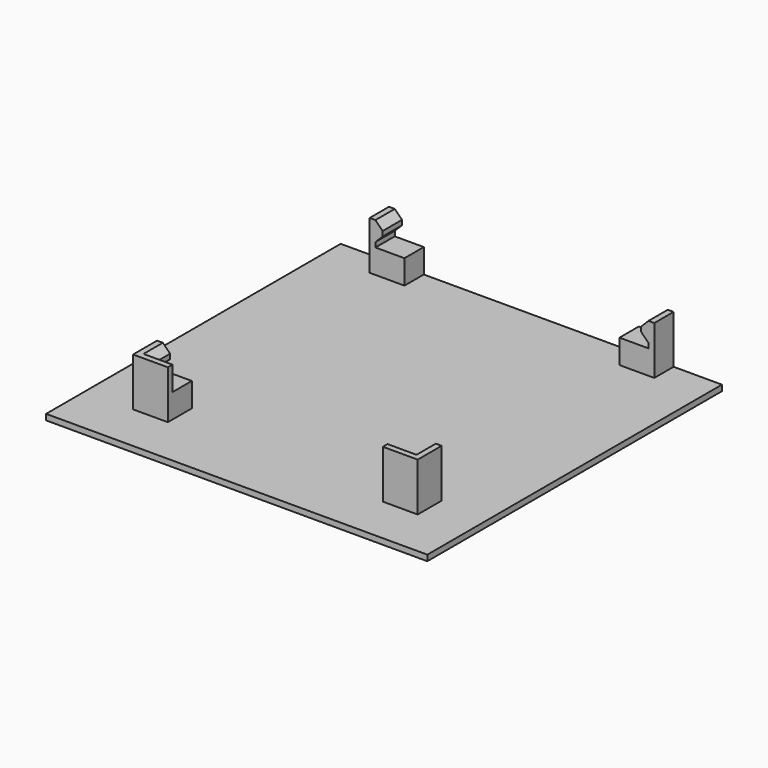
from build123d import *

# Parameters (mm, degrees)
F0_W     = 6
F0_H     = 5
F0_W_2   = 1.2
F1_DEPTH = 1.2
F2_DEPTH = 5
F3_DEPTH = 10
F5_DEPTH = 65
F6_DEPTH = 10


with BuildPart() as f1:
    # F0 (on Top) → F1 (new body)
    with BuildSketch(Plane.XY):
        with Locations((14.2, -2.5)):
            Rectangle(F0_W, F0_H)
        with Locations((10.6, -2.5)):
            Rectangle(F0_W_2, F0_H)
        Polygon((10, 0), (0, 0), (0, -76.2), (78.9, -76.2), (78.9, 0), (68.9, 0), (68.9, -5), (67.7, -5), (61.7, -5), (61.7, 0), (17.2, 0), (17.2, -5), (11.2, -5), (10, -5), align=None)
        Polygon((10, -60), (11.2, -60), (17.2, -60), (17.2, -65), (17.2, -66.2), (10, -66.2), align=None, mode=Mode.SUBTRACT)
        Polygon((61.7, -65), (61.7, -60), (67.7, -60), (68.9, -60), (68.9, -66.2), (61.7, -66.2), align=None, mode=Mode.SUBTRACT)
        with Locations((64.7, -2.5)):
            Rectangle(F0_W, F0_H)
        with Locations((68.3, -2.5)):
            Rectangle(F0_W_2, F0_H)
        with Locations((64.7, -62.5)):
            Rectangle(F0_W, F0_H)
        Polygon((68.9, -60), (67.7, -60), (67.7, -65), (61.7, -65), (61.7, -66.2), (68.9, -66.2), align=None)
        with Locations((14.2, -62.5)):
            Rectangle(F0_W, F0_H)
        Polygon((11.2, -65), (11.2, -60), (10, -60), (10, -66.2), (17.2, -66.2), (17.2, -65), align=None)
    extrude(amount=-F1_DEPTH)

    # F0 (on Top) → F2 (join)
    with BuildSketch(Plane.XY):
        with Locations((14.2, -2.5)):
            Rectangle(F0_W, F0_H)
        with Locations((14.2, -62.5)):
            Rectangle(F0_W, F0_H)
        with Locations((64.7, -2.5)):
            Rectangle(F0_W, F0_H)
        with Locations((64.7, -62.5)):
            Rectangle(F0_W, F0_H)
    extrude(amount=F2_DEPTH)

    # F0 (on Top) → F3 (join)
    with BuildSketch(Plane.XY):
        Polygon((11.2, -65), (11.2, -60), (10, -60), (10, -66.2), (17.2, -66.2), (17.2, -65), align=None)
        Polygon((68.9, -60), (67.7, -60), (67.7, -65), (61.7, -65), (61.7, -66.2), (68.9, -66.2), align=None)
        with Locations((68.3, -2.5)):
            Rectangle(F0_W_2, F0_H)
        with Locations((10.6, -2.5)):
            Rectangle(F0_W_2, F0_H)
    extrude(amount=F3_DEPTH)

    # F4 (on face) → F5 (join, through all)
    with BuildSketch(Plane(origin=(0, 0, 0), x_dir=(-1, 0, 0), z_dir=(0, 1, 0))):
        Polygon((-11.2, 6), (-11.2, 10), (-12.7, 8.5), (-12.7, 7.5), align=None)
        Polygon((-66.2, 7.5), (-66.2, 8.5), (-67.7, 10), (-67.7, 6), align=None)
    extrude(amount=-F5_DEPTH)

    # F0 (on Top) → F6 (cut, through all)
    with BuildSketch(Plane.XY):
        Polygon((10, 0), (0, 0), (0, -76.2), (78.9, -76.2), (78.9, 0), (68.9, 0), (68.9, -5), (67.7, -5), (61.7, -5), (61.7, 0), (17.2, 0), (17.2, -5), (11.2, -5), (10, -5), align=None)
        Polygon((10, -60), (11.2, -60), (17.2, -60), (17.2, -65), (17.2, -66.2), (10, -66.2), align=None, mode=Mode.SUBTRACT)
        Polygon((61.7, -65), (61.7, -60), (67.7, -60), (68.9, -60), (68.9, -66.2), (61.7, -66.2), align=None, mode=Mode.SUBTRACT)
    extrude(amount=F6_DEPTH, mode=Mode.SUBTRACT)


solid = f1.part
